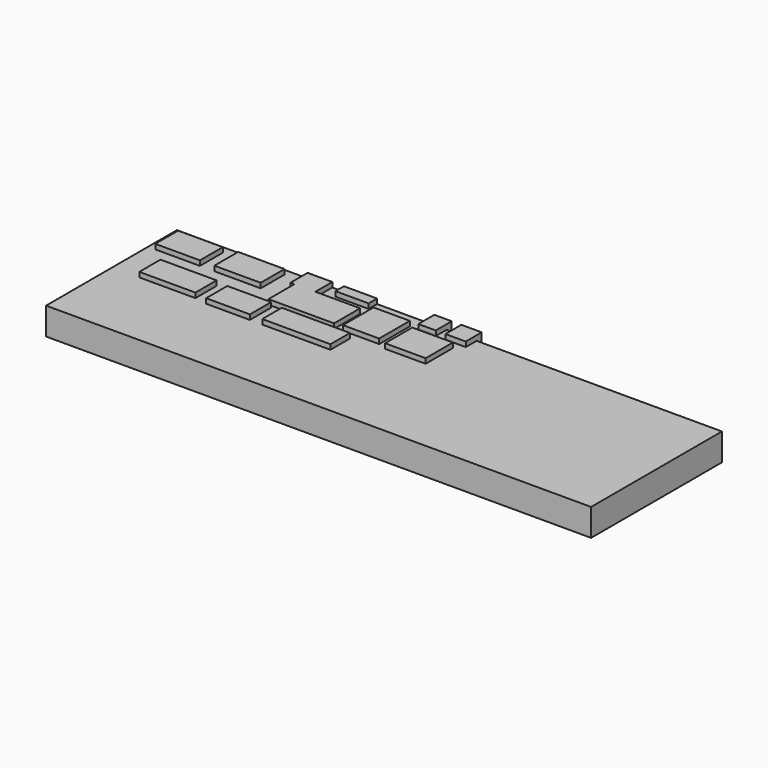
from build123d import *

# Parameters (mm, degrees)
F0_W          = 100
F0_H          = 30
F1_DEPTH      = 5
F2_W          = 8.196883
F2_H          = 5.239555
F2_W_2        = 10.289293
F2_H_2        = 4.854159
F2_W_3        = 8.500245
F2_H_3        = 5.465182
F2_W_4        = 8.03056
F2_H_4        = 4.854797
F2_W_5        = 12.510864
F2_H_5        = 4.473866
F2_W_6        = 6.646618
F2_H_6        = 7.028431
F2_W_7        = 6.090546
F2_H_7        = 1.946411
F2_W_8        = 7.445213
F2_H_8        = 6.23659
F2_W_9        = 3.194372
F2_H_9        = 3.654776
F2_W_10       = 3.732365
F3_DEPTH      = 0.9
F3_DEPTH_BACK = 5.7


with BuildPart() as f1:
    # F0 (on Top) → F1 (new body)
    with BuildSketch(Plane.XY):
        with Locations((-11.689384, -8.387734)):
            Rectangle(F0_W, F0_H)
    extrude(amount=F1_DEPTH)

    # F2 (on face) → F3 (join, two sides)
    with BuildSketch(Plane.XY.offset(5)) as f3_sk:
        with Locations((-56.269321, 2.619778)):
            Rectangle(F2_W, F2_H)
        with Locations((-51.577137, -5.787824)):
            Rectangle(F2_W_2, F2_H_2)
        with Locations((-45.274136, 2.732591)):
            Rectangle(F2_W_3, F2_H_3)
        Polygon((-37.700053, 2.719443), (-36.987849, 2.719443), (-33.169098, 2.719443), (-33.169098, 6.612266), (-37.700053, 6.612266), align=None)
        Polygon((-33.169098, 2.719443), (-36.987849, 2.719443), (-36.987849, -3.260119), (-24.9527, -3.260119), (-24.9527, 2.719443), align=None)
        with Locations((-40.126903, -6.190432)):
            Rectangle(F2_W_4, F2_H_4)
        with Locations((-27.565886, -6.402896)):
            Rectangle(F2_W_5, F2_H_5)
        with Locations((-20.288212, 0.609834)):
            Rectangle(F2_W_6, F2_H_6)
        with Locations((-27.997973, 5.63906)):
            Rectangle(F2_W_7, F2_H_7)
        with Locations((-11.670222, -0.398852)):
            Rectangle(F2_W_8, F2_H_8)
        with Locations((-13.795643, 5.951438)):
            Rectangle(F2_W_9, F2_H_9)
        with Locations((-8.564607, 5.951438)):
            Rectangle(F2_W_10, F2_H_9)
    extrude(amount=F3_DEPTH)
    extrude(f3_sk.sketch, amount=-F3_DEPTH_BACK)


solid = f1.part
